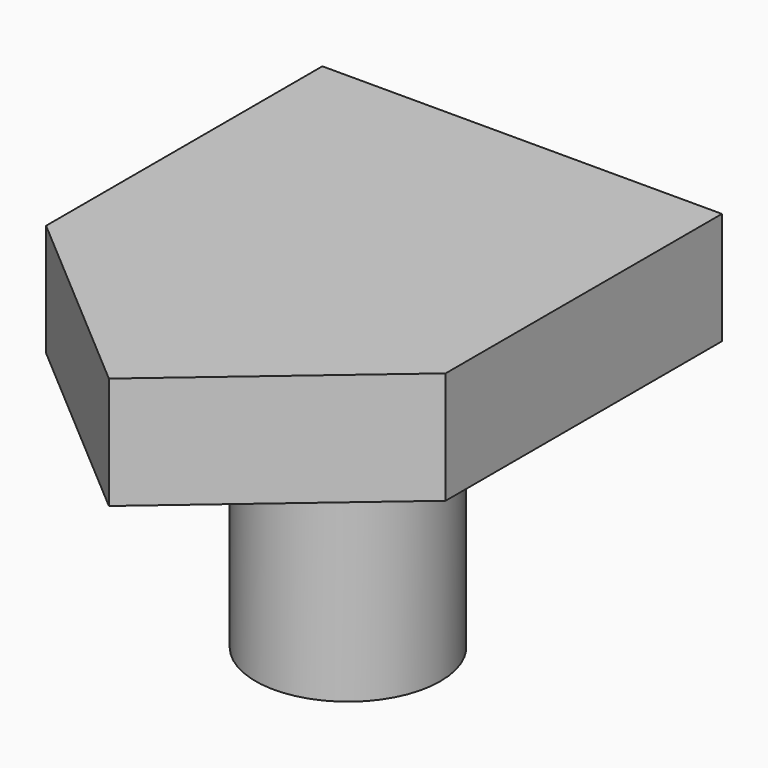
from build123d import *

# Parameters (mm, degrees)
F1_DEPTH = 5.334
F2_R     = 4.395324
F3_DEPTH = 17.018


with BuildPart() as f1:
    # F0 (on Top) → F1 (new body)
    with BuildSketch(Plane.XY):
        Polygon((-50.082598, 47.232367), (-50.082598, 30.809619), (-40.581834, 22.666108), (-31.081069, 30.809619), (-31.081069, 47.232367), align=None)
    extrude(amount=F1_DEPTH)

    # F2 (on face) → F3 (join)
    with BuildSketch(Plane.XY.offset(5.334)):
        with Locations((-40.580746, 36.879212)):
            Circle(F2_R)
    extrude(amount=-F3_DEPTH)


solid = f1.part
